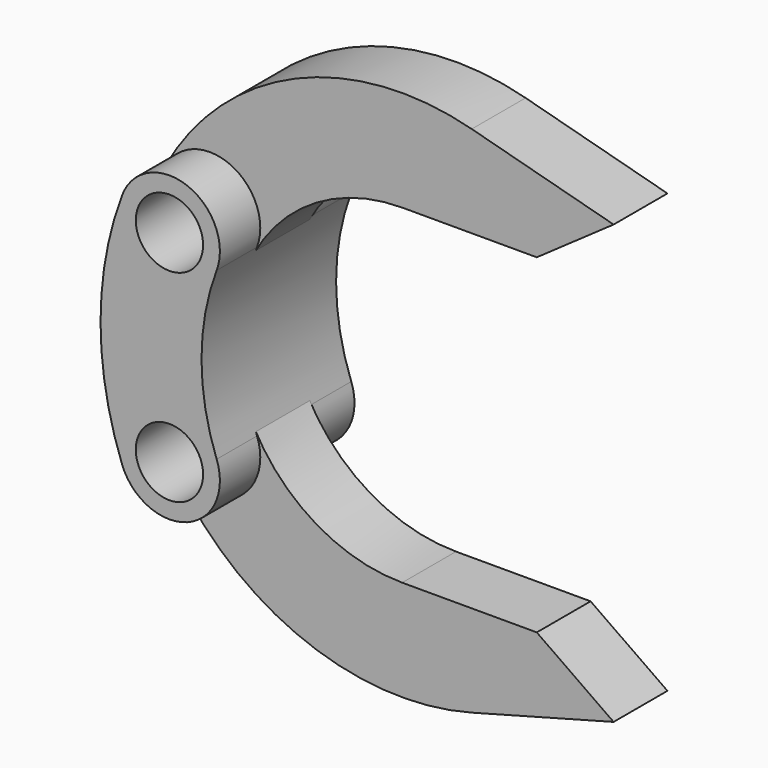
from build123d import *

# Parameters (mm, degrees)
F0_R     = 5
F2_DEPTH = 12.5
F3_DEPTH = 5


with BuildPart() as f2:
    # F0 (on Front) → F2 (new body, symmetric)
    with BuildSketch(Plane.XZ):
        with BuildLine():
            ThreePointArc((7.017341, -12.352941), (4.764934, 0), (7.017341, 12.352941))
            ThreePointArc((7.017341, 12.352941), (2.647059, 22.017341), (-7.017341, 17.647059))
            ThreePointArc((-7.017341, 17.647059), (-10.235066, 0), (-7.017341, -17.647059))
            ThreePointArc((-7.017341, -17.647059), (2.647059, -22.017341), (7.017341, -12.352941))
        make_face()
        with Locations((0, -15)):
            Circle(F0_R, mode=Mode.SUBTRACT)
        with Locations((0, 15)):
            Circle(F0_R, mode=Mode.SUBTRACT)
    extrude(amount=F2_DEPTH, both=True)


with BuildPart() as f3:
    # F1 (on Front) → F3 (new body, symmetric)
    with BuildSketch(Plane.XZ):
        with BuildLine():
            ThreePointArc((6.595982, -11.430264), (7.270484, -13.158787), (7.5, -15))
            ThreePointArc((7.5, -15), (1.841213, -22.270484), (-6.595982, -18.569736))
            ThreePointArc((-6.595982, -18.569736), (12.762009, -36.269531), (38.922994, -38.171485))
            Line((38.922994, -38.171485), (60, -32.531142))
            Line((60, -32.531142), (48.58259, -24.531142))
            Line((48.58259, -24.531142), (28.58259, -24.531142))
            ThreePointArc((28.58259, -24.531142), (15.785677, -21.007618), (6.595982, -11.430264))
        make_face()
        with BuildLine():
            ThreePointArc((-6.595982, 18.569736), (1.841213, 22.270484), (7.5, 15))
            ThreePointArc((7.5, 15), (7.270484, 13.158787), (6.595982, 11.430264))
            ThreePointArc((6.595982, 11.430264), (15.785677, 21.007618), (28.58259, 24.531142))
            Line((28.58259, 24.531142), (48.58259, 24.531142))
            Line((48.58259, 24.531142), (60, 32.531142))
            Line((60, 32.531142), (38.922994, 38.171485))
            ThreePointArc((38.922994, 38.171485), (12.762009, 36.269531), (-6.595982, 18.569736))
        make_face()
    extrude(amount=F3_DEPTH, both=True)


solid = Compound([f2.part, f3.part])
